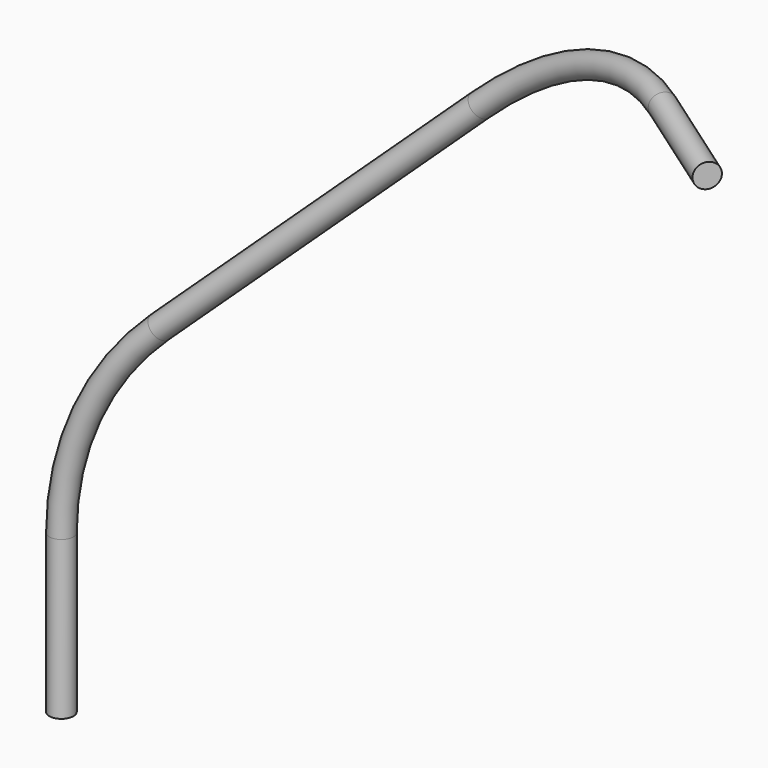
from build123d import *

# Parameters (mm, degrees)
F6_R  = 2.1844
F19_T = -0.762


with BuildPart() as f18:
    # F18: sweep along a path in F17, F15
    with BuildLine(Plane(origin=(-43.675651977, 270.5866603644, 0), x_dir=(-0.9872223923, -0.1593485118, 0), z_dir=(-0.1593485118, 0.9872223923, 0))) as f18_path:
        Line((-77.5288046302, -791.51734), (-77.5288046302, -762.7486817052))
        ThreePointArc((-77.5288046302, -762.7486817052), (-81.7230084447, -742.536315146), (-93.6130472254, -725.6615385445))
        Line((-93.6130472254, -725.6615385445), (-145.952605517, -676.668619342))
    with BuildLine(Plane(origin=(295.9948145741, 422.72440444, -384.1351665385), x_dir=(-0.8878667779, 0.3405109306, -0.3094267131), z_dir=(0.4601006245, 0.6570917897, -0.597107859))) as f18_path_2:
        ThreePointArc((220.2839333931, -303.1725531038), (196.3863531805, -293.9385533264), (171.0214128625, -297.5414541816))
        Line((171.0214128625, -297.5414541816), (150.3584973451, -306.1806072573))
    # F6 (on line) → F18 (sweep)
    with BuildSketch(Plane.XY.offset(-791.51734)):
        with Locations((32.86252, 282.94076)):
            Circle(F6_R)
    sweep(path=f18_path.line + f18_path_2.line)

    # F19
    f19_openings = [f18.faces().sort_by_distance(p)[0] for p in [
        (32.86252, 282.94076, -791.51734),
    ]]
    offset(amount=F19_T, openings=f19_openings)


solid = f18.part
